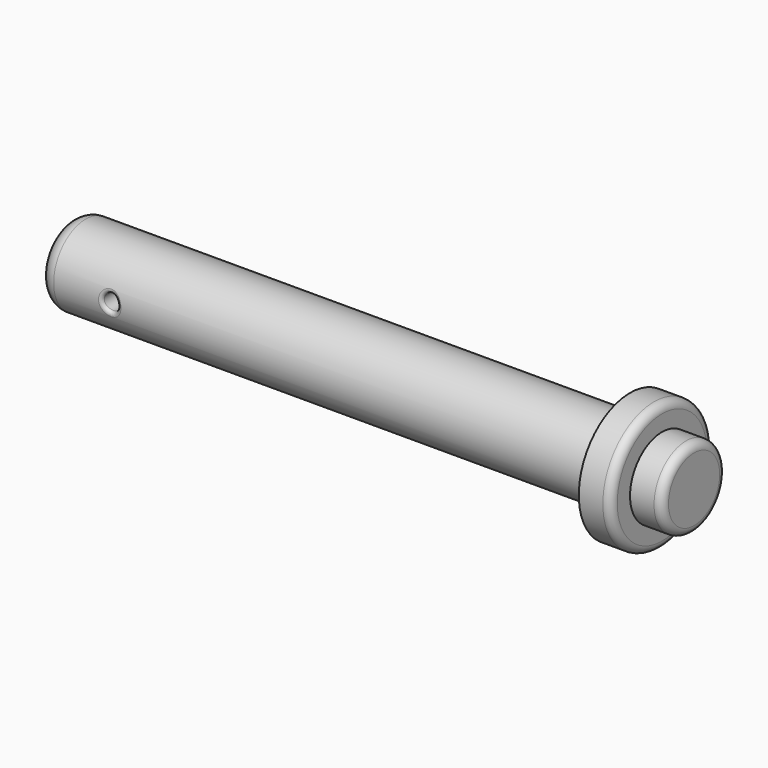
from build123d import *

# Parameters (mm, degrees)
F0_R      = 12.5
F1_DEPTH  = 175
F2_R      = 20
F3_DEPTH  = 10
F4_R      = 12.5
F5_DEPTH  = 10
F6_R      = 2.5
F7_R      = 2.5
F8_DEPTH  = 12.5
F9_R      = 1
F10_R     = 5
F11_SCALE = 0.24


with BuildPart() as f1:
    # F0 (on Right) → F1 (new body)
    with BuildSketch(Plane.YZ):
        Circle(F0_R)
    extrude(amount=F1_DEPTH)

    # F2 (on face) → F3 (join)
    with BuildSketch(Plane.YZ.offset(175)):
        Circle(F2_R)
    extrude(amount=F3_DEPTH)

    # F4 (on face) → F5 (join)
    with BuildSketch(Plane.YZ.offset(185)):
        Circle(F4_R)
    extrude(amount=F5_DEPTH)

    # F6
    f6_edges = [f1.edges().sort_by_distance(p)[0] for p in [
        (195, -12.5, 0),
        (185, -20, 0),
    ]]
    fillet(f6_edges, radius=F6_R)

    # F7 (on Front) → F8 (cut, symmetric)
    with BuildSketch(Plane.XZ):
        with Locations((22.5, 0)):
            Circle(F7_R)
    extrude(amount=F8_DEPTH, both=True, mode=Mode.SUBTRACT)

    # F9
    f9_edges = [f1.edges().sort_by_distance(p)[0] for p in [
        (22.5, 12.247449, 2.5),
        (22.5, 12.247449, -2.5),
        (20, -12.5, 0),
    ]]
    fillet(f9_edges, radius=F9_R)

    # F10
    f10_edges = [f1.edges().sort_by_distance(p)[0] for p in [
        (0, -12.5, 0),
    ]]
    fillet(f10_edges, radius=F10_R)


with BuildPart() as f1_1:
    # F11: moved
    add(f1.part.scale(F11_SCALE))


solid = f1_1.part
